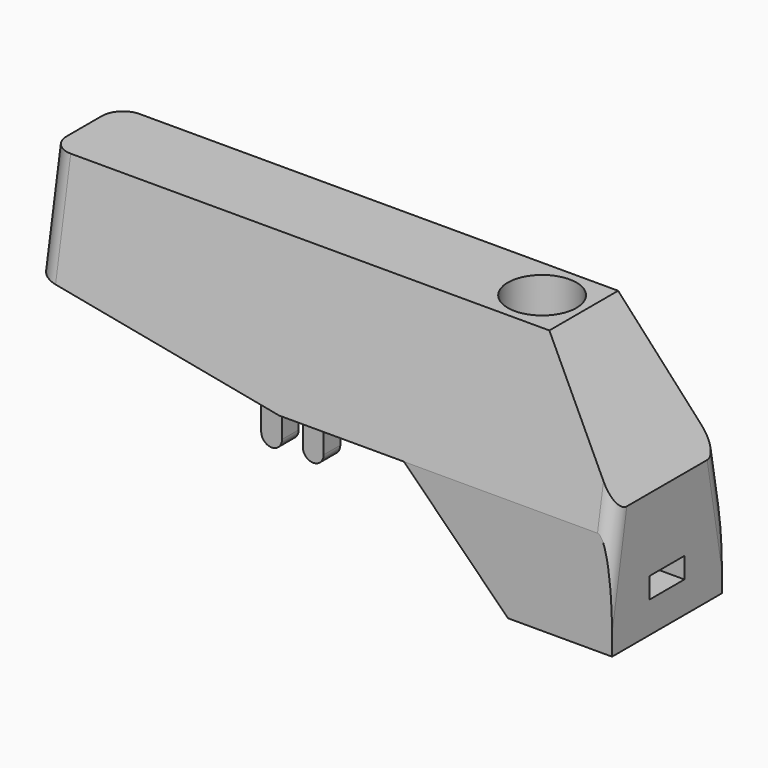
from build123d import *

# Parameters (mm, degrees)
CYLINDER_R      = 1.65
CYLINDER_DEPTH  = 30
PAD005_DEPTH    = 1.05
PAD001_DEPTH    = 3.3
POCKET004_DEPTH = 28.001
PAD002_DEPTH    = 0.5
FILLET_R        = 0.7
FILLET002_R     = 1


with BuildPart() as black_led_base:
    # Cylinder → Cylinder (join)
    with BuildSketch(Plane(origin=(-6, 0, -15), x_dir=(1, 0, 0), z_dir=(0, 0, 1))):
        Circle(CYLINDER_R)
    extrude(amount=CYLINDER_DEPTH)


with BuildPart() as obj1:
    # Sketch016 → Pad005 (new body, symmetric)
    with BuildSketch(Plane.XZ):
        Polygon((-6, 2.5), (-6, -0.5), (0, -0.5), (0, 0.5), align=None)
    extrude(amount=PAD005_DEPTH, both=True)


with BuildPart() as black_a:
    # Sketch005 → Pad001 (new body, symmetric)
    with BuildSketch(Plane.XZ):
        Polygon((0, 0), (0, -2), (-5, -2), (-10, 3), (-16, 3), (-28, 5), (-28, 10), (-4, 10), (0, 4), align=None)
    extrude(amount=PAD001_DEPTH, both=True)

    # Sketch006 → Pocket004 (cut, through all)
    with BuildSketch(Plane.YZ):
        Polygon((-3.3, 0), (-3.3, 3), (0, 21.71523), (3.3, 3), (3.3, 0), (13, 0), (13, 26), (-13, 26), (-13, 0), align=None)
    extrude(amount=-POCKET004_DEPTH, mode=Mode.SUBTRACT)

    # Sketch008 → Pad002 (join, symmetric)
    with BuildSketch(Plane.XZ.offset(2)):
        with BuildLine():
            ThreePointArc((-15.5, 1.5), (-15, 1), (-14.5, 1.5))
            Line((-14.5, 1.5), (-14.5, 3))
            ThreePointArc((-14.5, 3), (-15, 3.5), (-15.5, 3))
            Line((-15.5, 1.5), (-15.5, 3))
        make_face()
        with BuildLine():
            ThreePointArc((-16.5, 3), (-17, 3.5), (-17.5, 3))
            Line((-17.5, 3), (-17.5, 1.5))
            ThreePointArc((-17.5, 1.5), (-17, 1), (-16.5, 1.5))
            Line((-16.5, 3), (-16.5, 1.5))
        make_face()
    pad002 = extrude(amount=PAD002_DEPTH, both=True)

    # Mirrored001: Pad002 across XZ
    add(pad002.mirror(Plane.XZ))

    # Fillet
    fillet_edges = [black_a.edges().sort_by_distance(p)[0] for p in [
        (0, -3.211837, 3.5),
        (0, 3.211837, 3.5),
    ]]
    fillet(fillet_edges, radius=FILLET_R)

    # Fillet002
    fillet002_edges = [black_a.edges().sort_by_distance(p)[0] for p in [
        (-28, -2.506529, 7.5),
        (-28, 2.506529, 7.5),
    ]]
    fillet(fillet002_edges, radius=FILLET002_R)

    # Boolean001: cut black_led_BASE, obj1
    add(black_led_base.part, mode=Mode.SUBTRACT)
    add(obj1.part, mode=Mode.SUBTRACT)


with BuildPart() as black_a_1:
    # Body015 placement: moved
    add(black_a.part.moved(Location((0, -38.25, 0))))


solid = black_a_1.part
